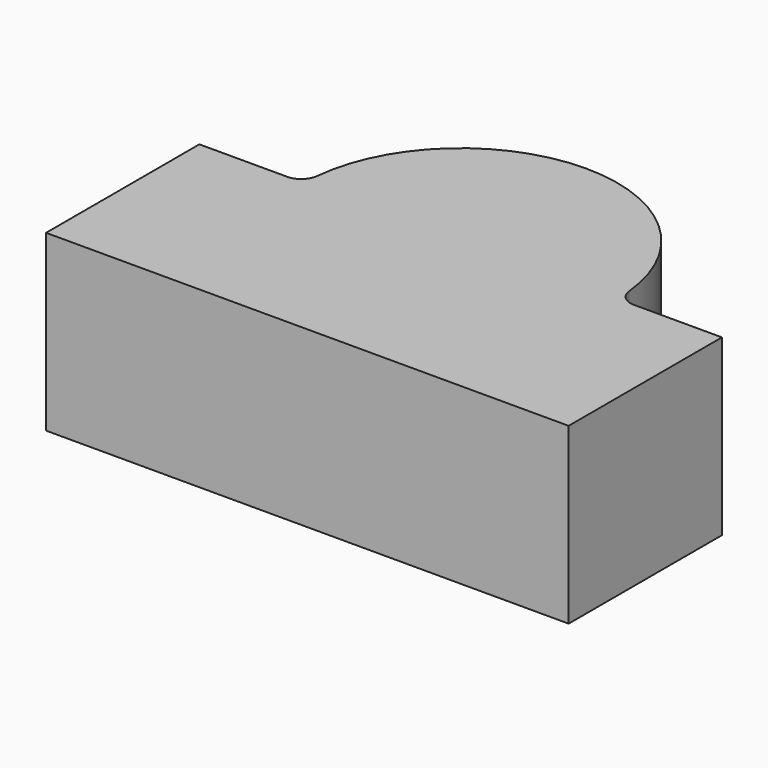
from build123d import *

# Parameters (mm, degrees)
F1_DEPTH = 1


with BuildPart() as f1:
    # F0 (on Top) → F1 (new body)
    with BuildSketch(Plane.XY):
        with BuildLine():
            Line((-1.5, 0), (0, 0))
            Line((0, 0), (0, 1.1))
            Line((0, 1.1), (0, 2))
            ThreePointArc((0, 2), (-0.603738, 1.767458), (-0.895489, 1.19))
            ThreePointArc((-0.895489, 1.19), (-0.927905, 1.125838), (-0.994987, 1.1))
            Line((-0.994987, 1.1), (-1.5, 1.1))
            Line((-1.5, 1.1), (-1.5, 0))
        make_face()
    extrude(amount=F1_DEPTH)

    # F2: F1 across plane


with BuildPart() as f1_1:
    add(f1.part)
    add(f1.part.mirror(Plane.YZ))


solid = f1_1.part
